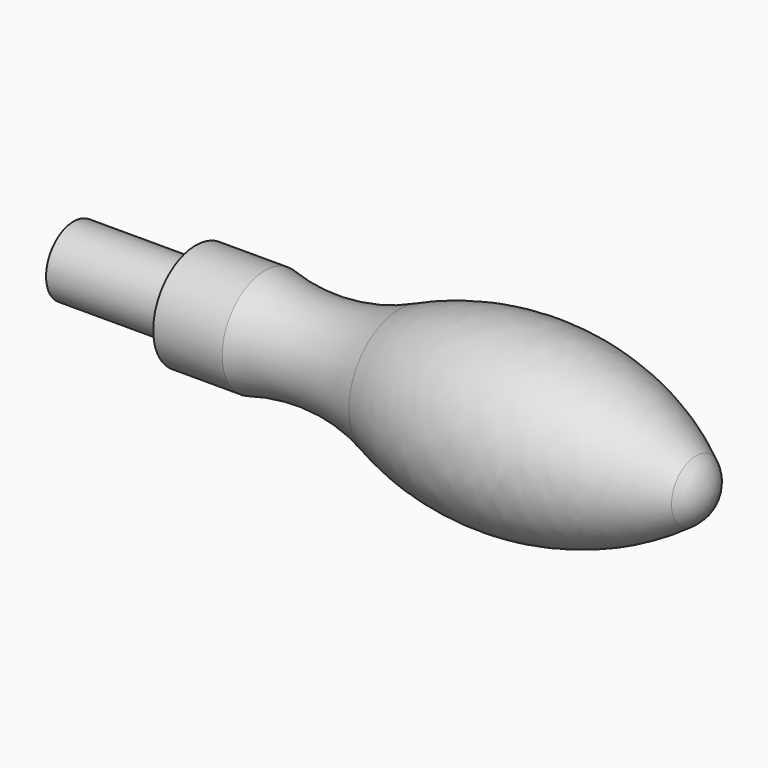
from build123d import *

# Parameters (mm, degrees)
F0_W = 23
F0_H = 6.5


with BuildPart() as f1:
    # F0 (on Top) → F1 (revolve)
    with BuildSketch(Plane.XY):
        with BuildLine():
            Line((-48, 10), (-48, 0))
            Line((-48, 0), (36.145537, 0))
            ThreePointArc((36.145537, 0), (35.378368, 3.221045), (33.24159, 5.750445))
            ThreePointArc((33.24159, 5.750445), (6.129777, 16.34737), (-22.638298, 11.904051))
            ThreePointArc((-22.638298, 11.904051), (-35.155125, 8.767246), (-48, 10))
        make_face()
        Polygon((-61, 10), (-61, 6.5), (-61, 0), (-48, 0), (-48, 10), align=None)
        with Locations((-72.5, 3.25)):
            Rectangle(F0_W, F0_H)
    revolve(axis=Axis((-23.927231, 0, 0), (-1, 0, 0)))


solid = f1.part
